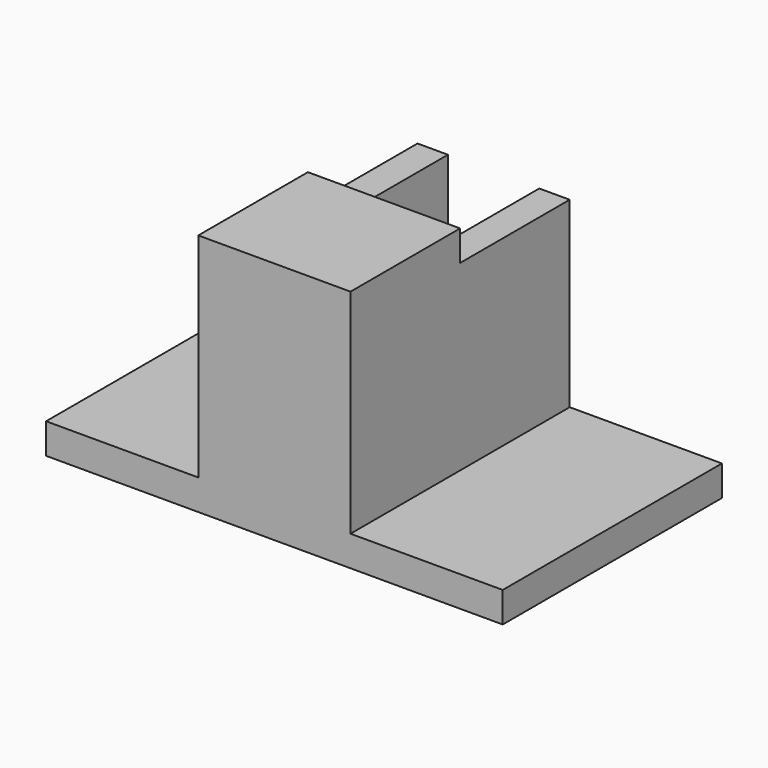
from build123d import *

# Parameters (mm, degrees)
F0_W      = 30
F0_H      = 18
F1_DEPTH  = 2
F3_W      = 10
F3_H      = 18
F3_W_2    = 6
F3_H_2    = 14
F4_DEPTH  = 12
F6_W      = 6
F6_H      = 7.2452436302
F7_DEPTH  = 4
F9_W      = 10
F9_H      = 9
F10_DEPTH = 2


with BuildPart() as f1:
    # F0 (on Top) → F1 (new body)
    with BuildSketch(Plane.XY):
        Rectangle(F0_W, F0_H)
    extrude(amount=F1_DEPTH)

    # F3 (on offset) → F4 (join)
    with BuildSketch(Plane.XY.offset(2)):
        Rectangle(F3_W, F3_H)
        Rectangle(F3_W_2, F3_H_2, mode=Mode.SUBTRACT)
    extrude(amount=F4_DEPTH)

    # F6 (on offset) → F7 (cut)
    with BuildSketch(Plane(origin=(0, 9, 0), x_dir=(-1, 0, 0), z_dir=(0, 1, 0))):
        with Locations((0, 10.3773781849)):
            Rectangle(F6_W, F6_H)
    extrude(amount=-F7_DEPTH, mode=Mode.SUBTRACT)

    # F9 (on offset) → F10 (join)
    with BuildSketch(Plane.XY.offset(14)):
        with Locations((0, -4.5)):
            Rectangle(F9_W, F9_H)
    extrude(amount=F10_DEPTH)


solid = f1.part
